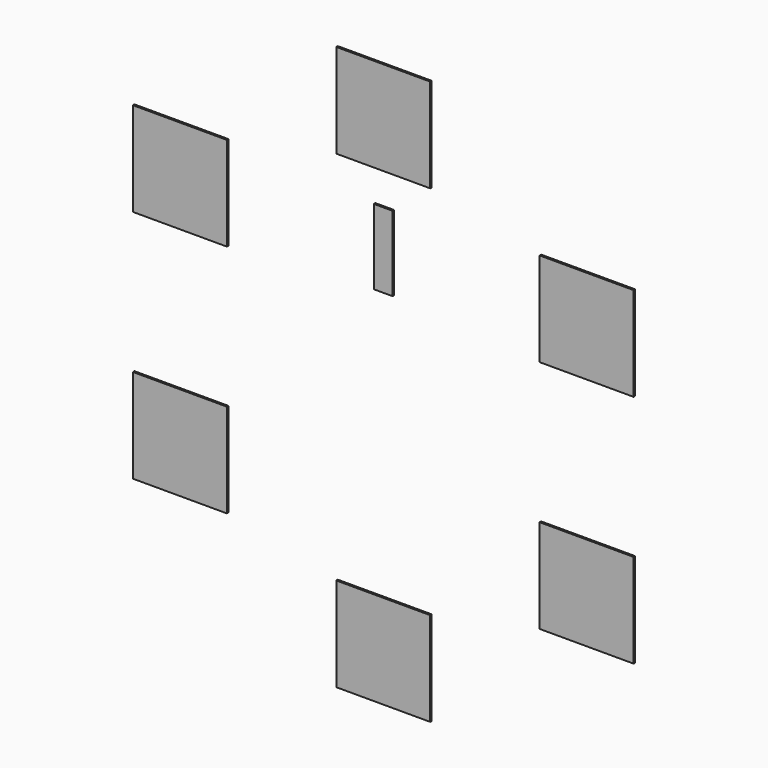
from build123d import *

# Parameters (mm, degrees)
F0_W     = 5
F0_H     = 5
F0_W_2   = 1
F0_H_2   = 4
F1_DEPTH = 0.1


with BuildPart() as f1:
    # F0 (on Front) → F1 (new body)
    with BuildSketch(Plane.XZ):
        with Locations((0, 12.5)):
            Rectangle(F0_W, F0_H)
        with Locations((10.825318, 6.25)):
            Rectangle(F0_W, F0_H)
        with Locations((10.825318, -6.25)):
            Rectangle(F0_W, F0_H)
        with Locations((0, -12.5)):
            Rectangle(F0_W, F0_H)
        with Locations((-10.825318, -6.25)):
            Rectangle(F0_W, F0_H)
        with Locations((-10.825318, 6.25)):
            Rectangle(F0_W, F0_H)
        with Locations((0, 6.295396)):
            Rectangle(F0_W_2, F0_H_2)
    extrude(amount=F1_DEPTH)


solid = f1.part
